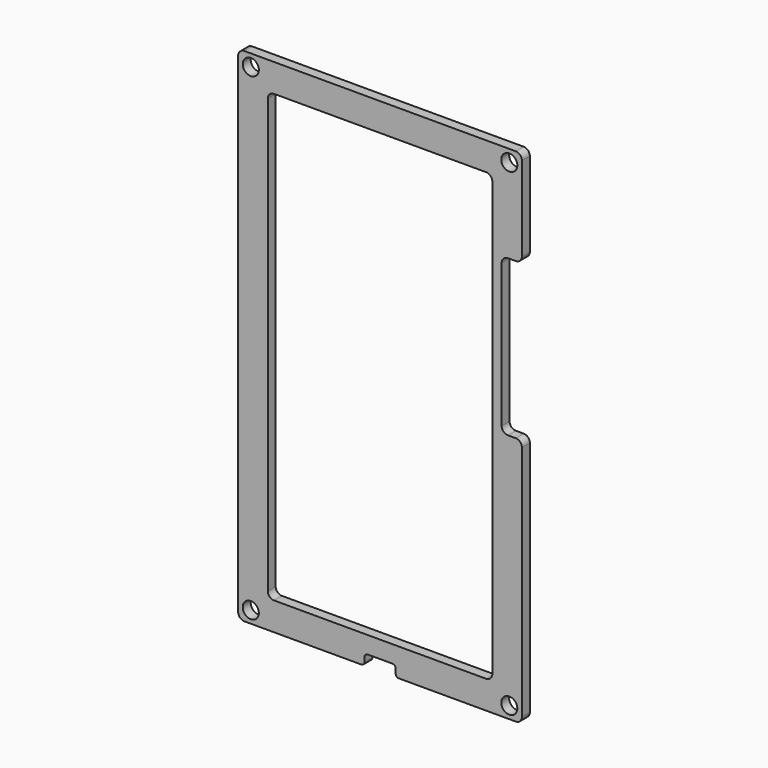
from build123d import *

# Parameters (mm, degrees)
F1_R     = 2.578
F1_W     = 72
F1_H     = 143
F2_DEPTH = 3.175
F3_R     = 2
F4_R     = 1


with BuildPart() as f2:
    # F1 (on Front) → F2 (new body)
    with BuildSketch(Plane.XZ):
        Polygon((45.5, 49.5), (45.5, 80.5), (-45.5, 80.5), (-45.5, -80.5), (-5, -80.5), (-5, -77), (5, -77), (5, -80.5), (45.5, -80.5), (45.5, -0.5), (39, -0.5), (39, 49.5), align=None)
        with Locations((-41.444645, -76.658085)):
            Circle(F1_R, mode=Mode.SUBTRACT)
        with Locations((41.444645, -76.658085)):
            Circle(F1_R, mode=Mode.SUBTRACT)
        Rectangle(F1_W, F1_H, mode=Mode.SUBTRACT)
        with Locations((-41.444645, 76.658085)):
            Circle(F1_R, mode=Mode.SUBTRACT)
        with Locations((41.444645, 76.658085)):
            Circle(F1_R, mode=Mode.SUBTRACT)
    extrude(amount=F2_DEPTH)

    # F3
    f3_edges = [f2.edges().sort_by_distance(p)[0] for p in [
        (-36, -1.5875, 71.5),
        (36, -1.5875, 71.5),
        (-45.5, -1.5875, 80.5),
        (45.5, -1.5875, 80.5),
        (45.5, -1.5875, 49.5),
        (39, -1.5875, 49.5),
        (45.5, -1.5875, -0.5),
        (39, -1.5875, -0.5),
        (-36, -1.5875, -71.5),
        (-45.5, -1.5875, -80.5),
        (45.5, -1.5875, -80.5),
        (36, -1.5875, -71.5),
    ]]
    fillet(f3_edges, radius=F3_R)

    # F4
    f4_edges = [f2.edges().sort_by_distance(p)[0] for p in [
        (5, -1.5875, -80.5),
        (5, -1.5875, -77),
        (-5, -1.5875, -77),
        (-5, -1.5875, -80.5),
    ]]
    fillet(f4_edges, radius=F4_R)


solid = f2.part
